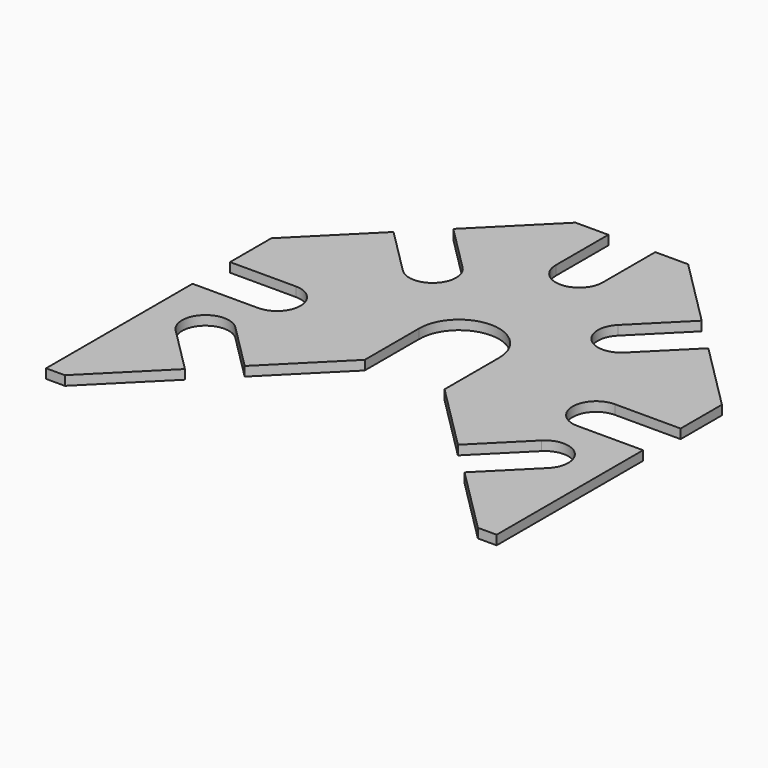
from build123d import *

# Parameters (mm, degrees)
F1_DEPTH = 6.35


with BuildPart() as f1:
    # F0 (on Top) → F1 (new body)
    with BuildSketch(Plane.XY):
        with BuildLine():
            Line((-152.4, 123.825), (-152.4, 0))
            Line((-152.4, 0), (-139.7, 0))
            Line((-139.7, 0), (-94.56907, 45.13093))
            Line((-94.56907, 45.13093), (-125.999967, 76.561826))
            ThreePointArc((-125.999967, 76.561826), (-125.999967, 99.012467), (-103.549326, 99.012467))
            Line((-103.549326, 99.012467), (-72.11843, 67.58157))
            Line((-72.11843, 67.58157), (-26.9875, 112.7125))
            Line((-26.9875, 112.7125), (-26.9875, 158.75))
            ThreePointArc((-26.9875, 158.75), (0, 185.7375), (26.9875, 158.75))
            Line((26.9875, 158.75), (26.9875, 112.7125))
            Line((26.9875, 112.7125), (72.11843, 67.58157))
            Line((72.11843, 67.58157), (103.549326, 99.012467))
            ThreePointArc((103.549326, 99.012467), (120.849746, 102.453734), (130.649646, 87.787146))
            ThreePointArc((130.649646, 87.787146), (129.441234, 81.712047), (125.999967, 76.561826))
            Line((125.999967, 76.561826), (94.56907, 45.13093))
            Line((94.56907, 45.13093), (139.7, 0))
            Line((139.7, 0), (152.4, 0))
            Line((152.4, 0), (152.4, 123.825))
            Line((152.4, 123.825), (107.95, 123.825))
            ThreePointArc((107.95, 123.825), (92.075, 139.7), (107.95, 155.575))
            Line((107.95, 155.575), (152.4, 155.575))
            Line((152.4, 155.575), (152.4, 190.5))
            Line((152.4, 190.5), (106.47532, 236.42468))
            Line((106.47532, 236.42468), (75.044424, 204.993783))
            ThreePointArc((75.044424, 204.993783), (52.593783, 204.993783), (52.593783, 227.444424))
            Line((52.593783, 227.444424), (84.02468, 258.87532))
            Line((84.02468, 258.87532), (38.1, 304.8))
            Line((38.1, 304.8), (15.875, 304.8))
            Line((15.875, 304.8), (15.875, 260.35))
            ThreePointArc((15.875, 260.35), (0, 244.475), (-15.875, 260.35))
            Line((-15.875, 260.35), (-15.875, 304.8))
            Line((-15.875, 304.8), (-38.1, 304.8))
            Line((-38.1, 304.8), (-84.02468, 258.87532))
            Line((-84.02468, 258.87532), (-52.593783, 227.444424))
            ThreePointArc((-52.593783, 227.444424), (-52.593783, 204.993783), (-75.044424, 204.993783))
            Line((-75.044424, 204.993783), (-106.47532, 236.42468))
            Line((-106.47532, 236.42468), (-152.4, 190.5))
            Line((-152.4, 190.5), (-152.4, 155.575))
            Line((-152.4, 155.575), (-107.95, 155.575))
            ThreePointArc((-107.95, 155.575), (-96.72468, 150.92532), (-92.075, 139.7))
            ThreePointArc((-92.075, 139.7), (-96.72468, 128.47468), (-107.95, 123.825))
            Line((-107.95, 123.825), (-152.4, 123.825))
        make_face()
    extrude(amount=F1_DEPTH)


solid = f1.part
